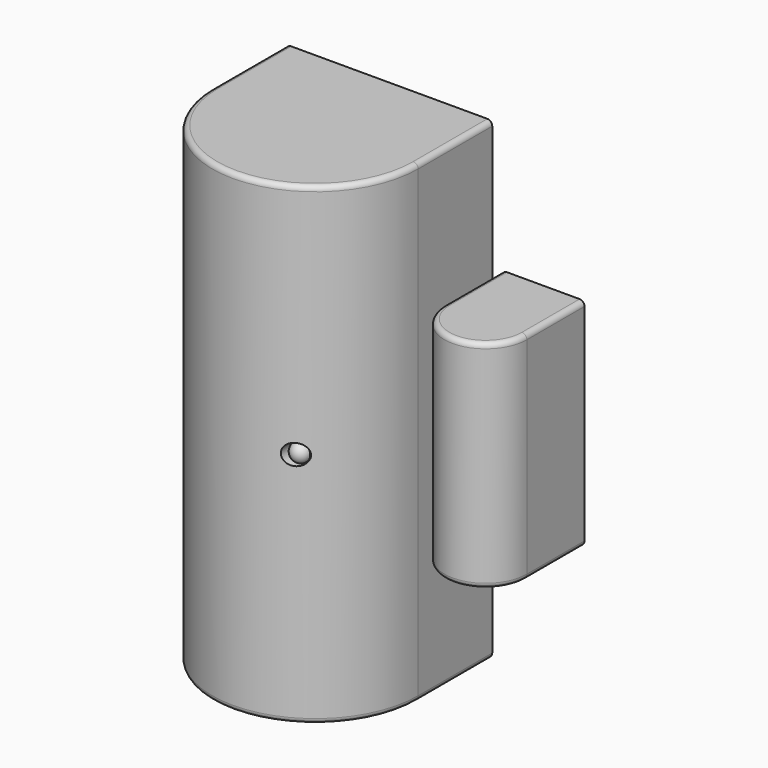
from build123d import *

# Parameters (mm, degrees)
F1_DEPTH  = 36.5125
F4_R      = 1.5875
F5_DEPTH  = 3.175
F8_R      = 0.762
F10_DEPTH = 16.66875
F11_R     = 0.762


with BuildPart() as f1:
    # F0 (on Top) → F1 (new body, symmetric)
    with BuildSketch(Plane.XY):
        with BuildLine():
            Line((15.875, 0), (-15.875, 0))
            Line((-15.875, 0), (-15.875, -14.2875))
            ThreePointArc((-15.875, -14.2875), (0, -30.1625), (15.875, -14.2875))
            Line((15.875, -14.2875), (15.875, 0))
        make_face()
    extrude(amount=F1_DEPTH, both=True)

    # F4 (on plane+point) → F5 (cut)
    with BuildSketch(Plane.XZ.offset(30.1625)):
        with Locations((7.9375, 0)):
            Circle(F4_R)
    extrude(amount=-F5_DEPTH, mode=Mode.SUBTRACT)

    # F6 (on face) → F7 (revolve)
    with BuildSketch(Plane.XZ.offset(26.9875)):
        with BuildLine():
            Line((7.9375, -1.4605), (7.9375, 1.4605))
            ThreePointArc((7.9375, 1.4605), (6.477, 0), (7.9375, -1.4605))
        make_face()
    revolve(axis=Axis((7.9375, -26.9875, 0), (0, 0, -1)))

    # F8
    f8_edges = [f1.edges().sort_by_distance(p)[0] for p in [
        (0, -30.1625, 36.5125),
        (0, -30.1625, -36.5125),
    ]]
    fillet(f8_edges, radius=F8_R)


with BuildPart() as f10:
    # F9 (on Top) → F10 (new body, symmetric)
    with BuildSketch(Plane.XY):
        with BuildLine():
            Line((30.099, 0), (17.399, 0))
            Line((17.399, 0), (17.399, -11.1125))
            ThreePointArc((17.399, -11.1125), (23.749, -17.4625), (30.099, -11.1125))
            Line((30.099, -11.1125), (30.099, 0))
        make_face()
    extrude(amount=F10_DEPTH, both=True)

    # F11
    f11_edges = [f10.edges().sort_by_distance(p)[0] for p in [
        (23.749, -17.4625, 16.66875),
        (23.749, -17.4625, -16.66875),
    ]]
    fillet(f11_edges, radius=F11_R)


solid = Compound([f1.part, f10.part])
